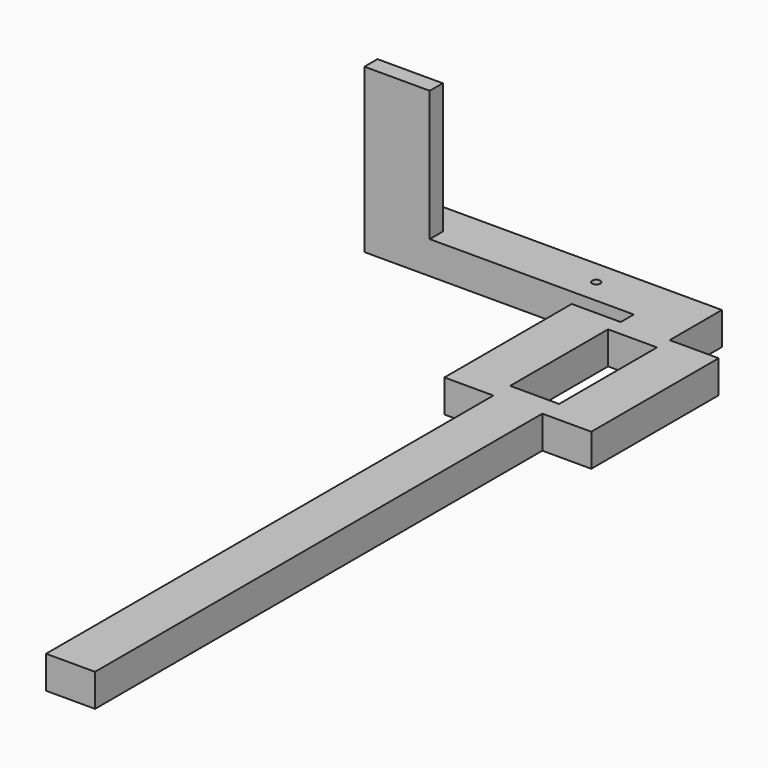
from build123d import *

# Parameters (mm, degrees)
F0_R     = 6.35
F1_DEPTH = 50.8
F2_W     = 101.6
F2_H     = 25.4
F3_DEPTH = 203.2
F4_W     = 76.2
F4_H     = 190.5
F5_DEPTH = 50.8


with BuildPart() as f1:
    # F0 (on Top) → F1 (new body)
    with BuildSketch(Plane.XY):
        Polygon((247.65, 38.1), (-247.65, 38.1), (-247.65, -38.1), (171.45, -38.1), (171.45, -63.5), (95.25, -63.5), (95.25, -311.15), (171.45, -311.15), (171.45, -1181.1), (247.65, -1181.1), (247.65, -311.15), (323.85, -311.15), (323.85, -63.5), (247.65, -63.5), (247.65, -38.1), align=None)
        with Locations((82.55, 0)):
            Circle(F0_R, mode=Mode.SUBTRACT)
    extrude(amount=F1_DEPTH)

    # F2 (on face) → F3 (join)
    with BuildSketch(Plane.XY.offset(50.8)):
        with Locations((-196.85, -25.4)):
            Rectangle(F2_W, F2_H)
    extrude(amount=F3_DEPTH)

    # F4 (on face) → F5 (cut)
    with BuildSketch(Plane.XY.offset(50.8)):
        with Locations((209.55, -183.31946)):
            Rectangle(F4_W, F4_H)
    extrude(amount=-F5_DEPTH, mode=Mode.SUBTRACT)


solid = f1.part
